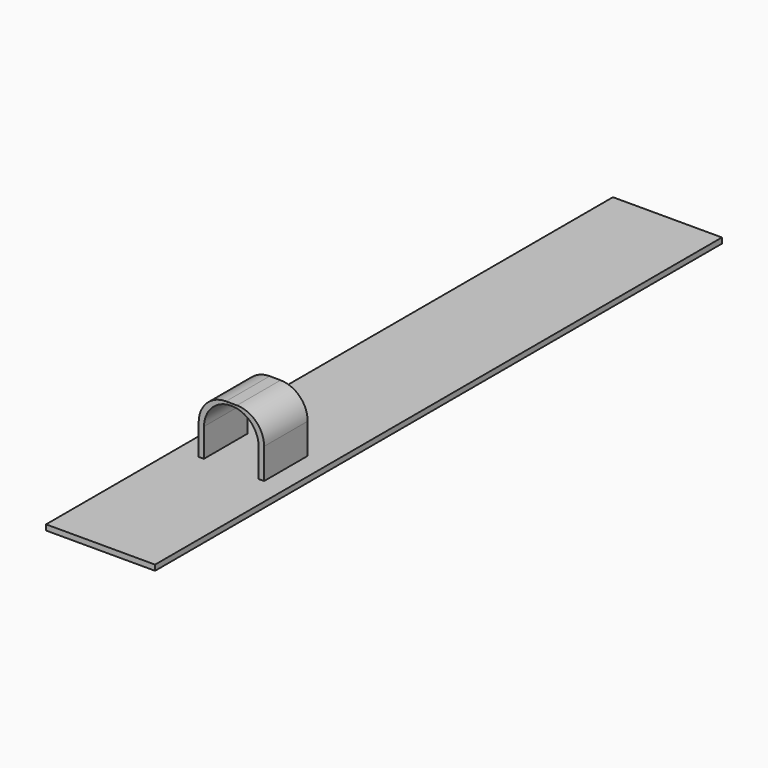
from build123d import *

# Parameters (mm, degrees)
F1_DEPTH = 76.2
F2_DEPTH = 254
F3_DEPTH = 25.4


with BuildPart() as f1:
    # F0 (on Front) → F1 (new body)
    with BuildSketch(Plane.XZ):
        Polygon((-15.184847, -13.14384), (-25.345129, -13.14384), (-25.345129, -15.692936), (25.454871, -15.692936), (25.454871, -13.14384), (15.294871, -13.14384), (12.754871, -13.14384), (-12.756689, -13.14384), align=None)
    extrude(amount=F1_DEPTH)

    # F0 (on Front) → F2 (join)
    with BuildSketch(Plane.XZ):
        Polygon((-15.184847, -13.14384), (-25.345129, -13.14384), (-25.345129, -15.692936), (25.454871, -15.692936), (25.454871, -13.14384), (15.294871, -13.14384), (12.754871, -13.14384), (-12.756689, -13.14384), align=None)
    extrude(amount=-F2_DEPTH)

    # F0 (on Front) → F3 (join)
    with BuildSketch(Plane.XZ):
        with BuildLine():
            Line((-15.184847, 1.1065), (-15.184847, -13.14384))
            Line((-15.184847, -13.14384), (-12.756689, -13.14384))
            Line((-12.756689, -13.14384), (-12.699554, 0.13098))
            ThreePointArc((-12.699554, 0.13098), (-8.941194, 9.095144), (0.054989, 12.776202))
            Line((0.054989, 12.776202), (0.109531, 12.775968))
            ThreePointArc((0.109531, 12.775968), (9.054432, 9.036995), (12.754871, 0.076085))
            Line((12.754871, 0.076085), (12.754871, -13.14384))
            Line((12.754871, -13.14384), (15.294871, -13.14384))
            Line((15.294871, -13.14384), (15.294871, 1.084637))
            ThreePointArc((15.294871, 1.084637), (11.594432, 10.045547), (2.649531, 13.784519))
            Line((2.649531, 13.784519), (-2.430187, 13.806382))
            ThreePointArc((-2.430187, 13.806382), (-11.445757, 10.10606), (-15.184847, 1.1065))
        make_face()
    extrude(amount=-F3_DEPTH)


solid = f1.part
